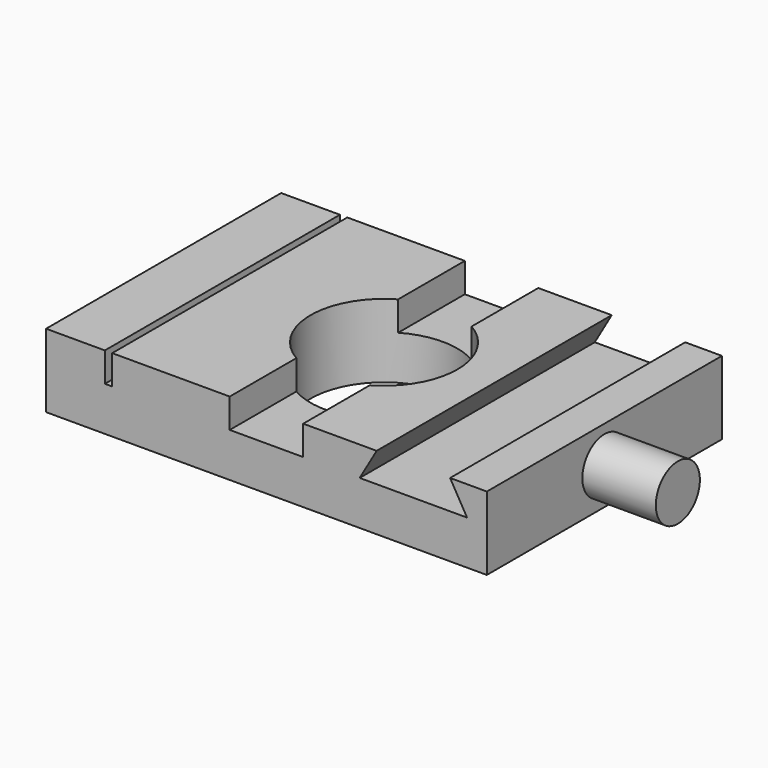
from build123d import *

# Parameters (mm, degrees)
F0_W     = 76.2
F0_H     = 50.8
F0_R     = 12.7
F1_DEPTH = 12.7
F2_W     = 1.27
F2_H     = 50.8
F3_DEPTH = 5.08
F5_DEPTH = 50.801
F6_R     = 4.7625
F7_DEPTH = 12.7


with BuildPart() as f1:
    # F0 (on Top) → F1 (new body)
    with BuildSketch(Plane.XY):
        Rectangle(F0_W, F0_H)
        Circle(F0_R, mode=Mode.SUBTRACT)
    extrude(amount=F1_DEPTH)

    # F2 (on face) → F3 (cut)
    with BuildSketch(Plane.XY.offset(12.7)):
        with Locations((-27.305, 0)):
            Rectangle(F2_W, F2_H)
        with BuildLine():
            Line((6.35, 25.4), (-6.35, 25.4))
            Line((-6.35, 25.4), (-6.35, 10.9985226281))
            ThreePointArc((-6.35, 10.9985226281), (0, 12.7), (6.35, 10.9985226281))
            Line((6.35, 10.9985226281), (6.35, 25.4))
        make_face()
        with BuildLine():
            ThreePointArc((6.35, 10.9985226281), (0, 12.7), (-6.35, 10.9985226281))
            Line((-6.35, 10.9985226281), (-6.35, -10.9985226281))
            ThreePointArc((-6.35, -10.9985226281), (0, -12.7), (6.35, -10.9985226281))
            Line((6.35, -10.9985226281), (6.35, 10.9985226281))
        make_face()
        with BuildLine():
            Line((-6.35, -10.9985226281), (-6.35, -25.4))
            Line((-6.35, -25.4), (6.35, -25.4))
            Line((6.35, -25.4), (6.35, -10.9985226281))
            ThreePointArc((6.35, -10.9985226281), (0, -12.7), (-6.35, -10.9985226281))
        make_face()
    extrude(amount=-F3_DEPTH, mode=Mode.SUBTRACT)

    # F4 (on face) → F5 (cut, through all)
    with BuildSketch(Plane.XZ.offset(25.4)):
        Polygon((31.75, 12.7), (19.05, 12.7), (16.1170606325, 7.62), (34.6829393675, 7.62), align=None)
    extrude(amount=-F5_DEPTH, mode=Mode.SUBTRACT)

    # F6 (on face) → F7 (join)
    with BuildSketch(Plane.YZ.offset(38.1)):
        with Locations((0, 6.35)):
            Circle(F6_R)
    extrude(amount=F7_DEPTH)


solid = f1.part
